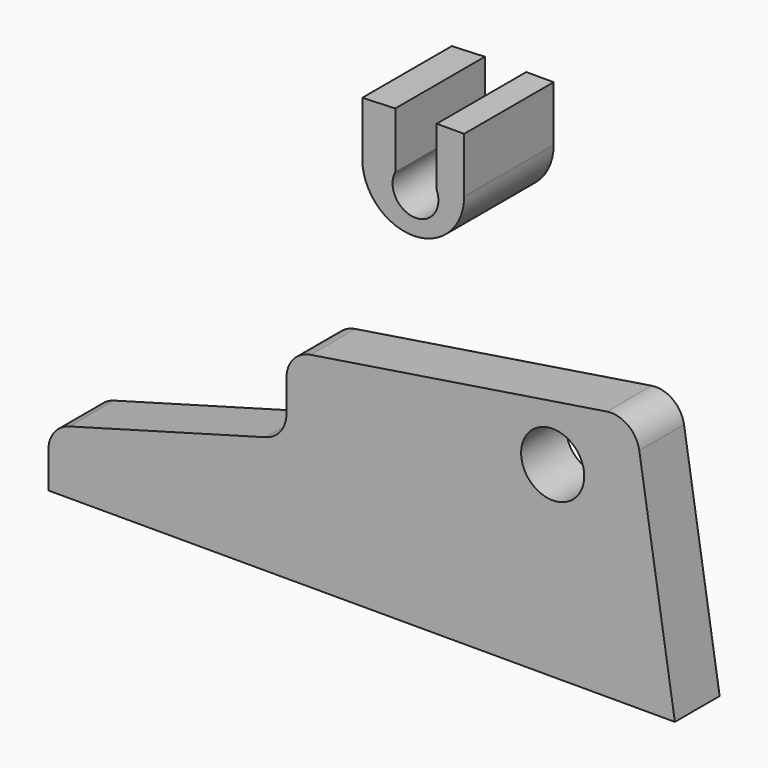
from build123d import *

# Parameters (mm, degrees)
F1_DEPTH = 10
F2_R     = 5.08
F3_R     = 5.639529
F4_DEPTH = 93.354344
F6_DEPTH = 20


with BuildPart() as f1:
    # F0 (on Front) → F1 (new body)
    with BuildSketch(Plane.XZ):
        Polygon((38.018815, -22.026807), (49.484797, -22.026807), (69.399424, -22.026807), (62.254088, 23.623965), (0, 13.879851), (0, 0), (-42.544864, -11.76776), (-42.544864, -22.026807), align=None)
    extrude(amount=F1_DEPTH)

    # F2
    f2_edges = [f1.edges().sort_by_distance(p)[0] for p in [
        (62.254088, -5, 23.623965),
        (0, -5, 13.879851),
        (0, -5, 0),
        (-42.544864, -5, -11.76776),
    ]]
    fillet(f2_edges, radius=F2_R)

    # F3 (on Front) → F4 (cut)
    with BuildSketch(Plane.XZ):
        with Locations((47.564153, 11.357924)):
            Circle(F3_R)
    extrude(amount=F4_DEPTH, mode=Mode.SUBTRACT)


with BuildPart() as f6:
    # F5 (on Front) → F6 (new body)
    with BuildSketch(Plane.XZ):
        with BuildLine():
            ThreePointArc((34.847177, 54.49492), (30.831971, 48.863531), (27.447183, 54.894918))
            Line((27.447183, 54.894918), (27.447183, 64.894918))
            Line((27.447183, 64.894918), (21.543767, 64.650759))
            Line((21.543767, 64.650759), (21.543767, 54.892909))
            ThreePointArc((21.543767, 54.892909), (30.707764, 45.925987), (39.740853, 55.024769))
            Line((39.740853, 55.024769), (39.740853, 64.894918))
            Line((39.740853, 64.894918), (34.847177, 64.894918))
            Line((34.847177, 64.894918), (34.847177, 54.49492))
        make_face()
    extrude(amount=F6_DEPTH)


solid = Compound([f1.part, f6.part])
